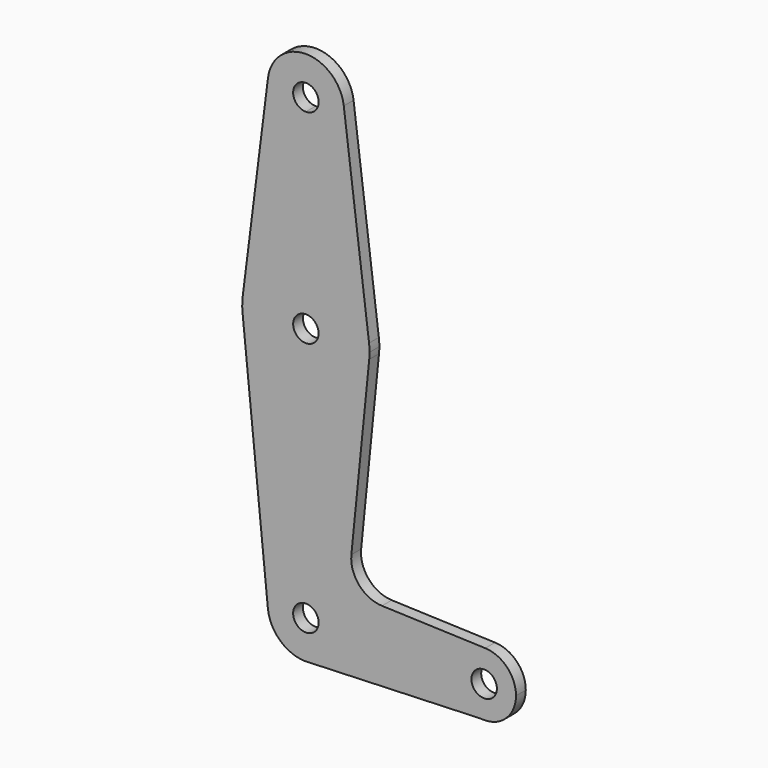
from build123d import *

# Parameters (mm, degrees)
F0_R     = 3.175
F1_DEPTH = 3.048


with BuildPart() as f1:
    # F0 (on Front) → F1 (new body)
    with BuildSketch(Plane.XZ):
        with BuildLine():
            ThreePointArc((-40.697005556, 73.2804687057), (-31.8431958338, 62.5835388115), (-21.7217125918, 72.0898437057))
            ThreePointArc((-21.7217125918, 72.0898437057), (-21.7404076976, 72.6863269477), (-21.7964196276, 73.2804687057))
            ThreePointArc((-21.7964196276, 73.2804687057), (-31.2467125918, 81.6148437057), (-40.697005556, 73.2804687057))
        make_face()
        with BuildLine():
            ThreePointArc((-31.2467125918, 68.9148437057), (-33.4917766221, 74.334907736), (-28.0717125918, 72.0898437057))
            ThreePointArc((-28.0717125918, 72.0898437057), (-29.0016485616, 69.8447796755), (-31.2467125918, 68.9148437057))
        make_face(mode=Mode.SUBTRACT)
        with BuildLine():
            ThreePointArc((-21.7964196276, 73.2804687057), (-21.7404076976, 72.6863269477), (-21.7217125918, 72.0898437057))
            ThreePointArc((-21.7217125918, 72.0898437057), (-31.8431958338, 62.5835388115), (-40.697005556, 73.2804687057))
            Line((-40.697005556, 73.2804687057), (-46.9972008655, 23.2742187057))
            ThreePointArc((-46.9972008655, 23.2742187057), (-31.2467125918, 37.1648437057), (-15.4962243182, 23.2742187057))
            Line((-15.4962243182, 23.2742187057), (-21.7964196276, 73.2804687057))
        make_face()
        with BuildLine():
            ThreePointArc((-15.3717125918, 21.2898437057), (-15.4028711015, 22.2839824424), (-15.4962243182, 23.2742187057))
            ThreePointArc((-15.4962243182, 23.2742187057), (-31.2467125918, 37.1648437057), (-46.9972008655, 23.2742187057))
            ThreePointArc((-46.9972008655, 23.2742187057), (-47.1204564073, 21.4895491925), (-47.0421381559, 19.7023437057))
            ThreePointArc((-47.0421381559, 19.7023437057), (-31.2467125918, 5.4148437057), (-15.4512870278, 19.7023437057))
            ThreePointArc((-15.4512870278, 19.7023437057), (-15.3916186812, 20.4950971517), (-15.3717125918, 21.2898437057))
        make_face()
        with Locations((-31.2467125918, 21.2898437057)):
            Circle(F0_R, mode=Mode.SUBTRACT)
        with BuildLine():
            ThreePointArc((-15.4512870278, 19.7023437057), (-31.2467125918, 5.4148437057), (-47.0421381559, 19.7023437057))
            Line((-47.0421381559, 19.7023437057), (-40.7239679303, -43.1626562943))
            ThreePointArc((-40.7239679303, -43.1626562943), (-31.7235605243, -32.6970999479), (-21.7217125918, -42.2101562943))
            ThreePointArc((-21.7217125918, -42.2101562943), (-24.1918707773, -48.6097525294), (-30.321152376, -51.690080518))
            Line((-30.321152376, -51.690080518), (12.3584738044, -50.1025701345))
            ThreePointArc((12.3584738044, -50.1025701345), (5.2858861313, -41.645653619), (13.486769551, -34.2777200906))
            Line((13.486769551, -34.2777200906), (-12.2791125913, -33.3569225834))
            ThreePointArc((-12.2791125913, -33.3569225834), (-17.9855126945, -30.6387971444), (-19.9055259995, -24.6167744819))
            Line((-19.9055259995, -24.6167744819), (-15.4512870278, 19.7023437057))
        make_face()
        with BuildLine():
            ThreePointArc((-21.7217125918, -42.2101562943), (-31.7235605243, -32.6970999479), (-40.7239679303, -43.1626562943))
            ThreePointArc((-40.7239679303, -43.1626562943), (-37.2850992423, -49.5765333997), (-30.321152376, -51.690080518))
            ThreePointArc((-30.321152376, -51.690080518), (-24.1918707773, -48.6097525294), (-21.7217125918, -42.2101562943))
        make_face()
        with Locations((-31.2467125918, -42.2101562943)):
            Circle(F0_R, mode=Mode.SUBTRACT)
        with BuildLine():
            Line((14.6320874585, -50.0180008538), (12.3584738044, -50.1025701345))
            ThreePointArc((12.3584738044, -50.1025701345), (13.498326445, -50.1421710583), (14.6320874585, -50.0180008538))
        make_face()
        with BuildLine():
            ThreePointArc((13.486769551, -34.2777200906), (5.2858861313, -41.645653619), (12.3584738044, -50.1025701345))
            Line((12.3584738044, -50.1025701345), (14.6320874585, -50.0180008538))
            ThreePointArc((14.6320874585, -50.0180008538), (19.3002131355, -47.2926166163), (21.1407874082, -42.2101562943))
            ThreePointArc((21.1407874082, -42.2101562943), (18.9152943129, -36.6986335128), (13.486769551, -34.2777200906))
        make_face()
        with Locations((13.2032874082, -42.2101562943)):
            Circle(F0_R, mode=Mode.SUBTRACT)
    extrude(amount=F1_DEPTH)


solid = f1.part
